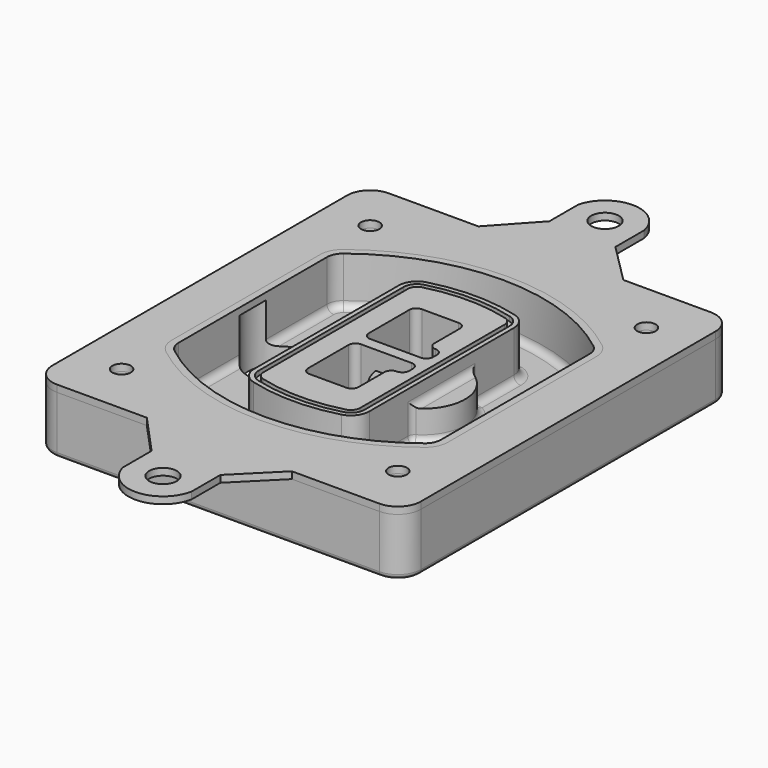
from build123d import *

# Parameters (mm, degrees)
F0_R      = 4
F1_DEPTH  = 25
F2_DEPTH  = 3
F3_DEPTH  = 18
F5_DEPTH  = 21
F6_DEPTH  = 2
F8_DEPTH  = 20
F9_DEPTH  = 16
F10_DEPTH = 25
F7_R      = 6
F7_R_2    = 4
F11_DEPTH = 6
F13_DEPTH = 9
F14_R     = 3
F15_R     = 2
F16_R     = 4
F16_R_2   = 6
F17_DEPTH = 3


with BuildPart() as f1:
    # F0 (on Top) → F1 (new body)
    with BuildSketch(Plane.XY):
        with BuildLine():
            ThreePointArc((-80, -80), (-77.0710678119, -87.0710678119), (-70, -90))
            Line((-70, -90), (70, -90))
            ThreePointArc((70, -90), (77.0710678119, -87.0710678119), (80, -80))
            Line((80, -80), (80, 80))
            ThreePointArc((80, 80), (77.0710678119, 87.0710678119), (70, 90))
            Line((70, 90), (-70, 90))
            ThreePointArc((-70, 90), (-77.0710678119, 87.0710678119), (-80, 80))
            Line((-80, 80), (-80, -80))
        make_face()
        with Locations((-60, -67.5)):
            Circle(F0_R, mode=Mode.SUBTRACT)
        with Locations((60, -67.5)):
            Circle(F0_R, mode=Mode.SUBTRACT)
        with Locations((-60, 67.5)):
            Circle(F0_R, mode=Mode.SUBTRACT)
        with BuildLine():
            ThreePointArc((-64, 40.2934422872), (-62.5820384798, 46.4328484224), (-58.6153846154, 51.3286200352))
            ThreePointArc((-58.6153846154, 51.3286200352), (0, 71.5), (58.6153846154, 51.3286200352))
            ThreePointArc((58.6153846154, 51.3286200352), (62.5820384798, 46.4328484224), (64, 40.2934422872))
            Line((64, 40.2934422872), (64, -40.2934422872))
            ThreePointArc((64, -40.2934422872), (62.5820384798, -46.4328484224), (58.6153846154, -51.3286200352))
            ThreePointArc((58.6153846154, -51.3286200352), (0, -71.5), (-58.6153846154, -51.3286200352))
            ThreePointArc((-58.6153846154, -51.3286200352), (-62.5820384798, -46.4328484224), (-64, -40.2934422872))
            Line((-64, -40.2934422872), (-64, 40.2934422872))
        make_face(mode=Mode.SUBTRACT)
        with Locations((60, 67.5)):
            Circle(F0_R, mode=Mode.SUBTRACT)
        with BuildLine():
            ThreePointArc((58.6153846154, 51.3286200352), (0, 71.5), (-58.6153846154, 51.3286200352))
            ThreePointArc((-58.6153846154, 51.3286200352), (-62.5820384798, 46.4328484224), (-64, 40.2934422872))
            Line((-64, 40.2934422872), (-64, -40.2934422872))
            ThreePointArc((-64, -40.2934422872), (-62.5820384798, -46.4328484224), (-58.6153846154, -51.3286200352))
            ThreePointArc((-58.6153846154, -51.3286200352), (0, -71.5), (58.6153846154, -51.3286200352))
            ThreePointArc((58.6153846154, -51.3286200352), (62.5820384798, -46.4328484224), (64, -40.2934422872))
            Line((64, -40.2934422872), (64, 40.2934422872))
            ThreePointArc((64, 40.2934422872), (62.5820384798, 46.4328484224), (58.6153846154, 51.3286200352))
        make_face()
        with BuildLine():
            Line((-60, -40.2934422872), (-60, 40.2934422872))
            ThreePointArc((-60, 40.2934422872), (-58.9871703427, 44.6787323838), (-56.1538461538, 48.1757121072))
            ThreePointArc((-56.1538461538, 48.1757121072), (0, 67.5), (56.1538461538, 48.1757121072))
            ThreePointArc((56.1538461538, 48.1757121072), (58.9871703427, 44.6787323838), (60, 40.2934422872))
            Line((60, 40.2934422872), (60, -40.2934422872))
            ThreePointArc((60, -40.2934422872), (58.9871703427, -44.6787323838), (56.1538461538, -48.1757121072))
            ThreePointArc((56.1538461538, -48.1757121072), (0, -67.5), (-56.1538461538, -48.1757121072))
            ThreePointArc((-56.1538461538, -48.1757121072), (-58.9871703427, -44.6787323838), (-60, -40.2934422872))
        make_face(mode=Mode.SUBTRACT)
        with BuildLine():
            ThreePointArc((-56.1538461538, 48.1757121072), (-58.9871703427, 44.6787323838), (-60, 40.2934422872))
            Line((-60, 40.2934422872), (-60, -40.2934422872))
            ThreePointArc((-60, -40.2934422872), (-58.9871703427, -44.6787323838), (-56.1538461538, -48.1757121072))
            ThreePointArc((-56.1538461538, -48.1757121072), (0, -67.5), (56.1538461538, -48.1757121072))
            ThreePointArc((56.1538461538, -48.1757121072), (58.9871703427, -44.6787323838), (60, -40.2934422872))
            Line((60, -40.2934422872), (60, 40.2934422872))
            ThreePointArc((60, 40.2934422872), (58.9871703427, 44.6787323838), (56.1538461538, 48.1757121072))
            ThreePointArc((56.1538461538, 48.1757121072), (0, 67.5), (-56.1538461538, 48.1757121072))
        make_face()
        with BuildLine():
            ThreePointArc((54.3076923077, 45.8110311612), (56.2910192399, 43.3631453548), (57, 40.2934422872))
            Line((57, 40.2934422872), (57, -40.2934422872))
            ThreePointArc((57, -40.2934422872), (56.2910192399, -43.3631453548), (54.3076923077, -45.8110311612))
            ThreePointArc((54.3076923077, -45.8110311612), (0, -64.5), (-54.3076923077, -45.8110311612))
            ThreePointArc((-54.3076923077, -45.8110311612), (-56.2910192399, -43.3631453548), (-57, -40.2934422872))
            Line((-57, -40.2934422872), (-57, 40.2934422872))
            ThreePointArc((-57, 40.2934422872), (-56.2910192399, 43.3631453548), (-54.3076923077, 45.8110311612))
            ThreePointArc((-54.3076923077, 45.8110311612), (0, 64.5), (54.3076923077, 45.8110311612))
        make_face(mode=Mode.SUBTRACT)
        with BuildLine():
            Line((57, -40.2934422872), (57, 40.2934422872))
            ThreePointArc((57, 40.2934422872), (56.2910192399, 43.3631453548), (54.3076923077, 45.8110311612))
            ThreePointArc((54.3076923077, 45.8110311612), (0, 64.5), (-54.3076923077, 45.8110311612))
            ThreePointArc((-54.3076923077, 45.8110311612), (-56.2910192399, 43.3631453548), (-57, 40.2934422872))
            Line((-57, 40.2934422872), (-57, -40.2934422872))
            ThreePointArc((-57, -40.2934422872), (-56.2910192399, -43.3631453548), (-54.3076923077, -45.8110311612))
            ThreePointArc((-54.3076923077, -45.8110311612), (0, -64.5), (54.3076923077, -45.8110311612))
            ThreePointArc((54.3076923077, -45.8110311612), (56.2910192399, -43.3631453548), (57, -40.2934422872))
        make_face()
    extrude(amount=-F1_DEPTH)

    # F0 (on Top) → F2 (join)
    with BuildSketch(Plane.XY):
        with BuildLine():
            ThreePointArc((-56.1538461538, 48.1757121072), (-58.9871703427, 44.6787323838), (-60, 40.2934422872))
            Line((-60, 40.2934422872), (-60, -40.2934422872))
            ThreePointArc((-60, -40.2934422872), (-58.9871703427, -44.6787323838), (-56.1538461538, -48.1757121072))
            ThreePointArc((-56.1538461538, -48.1757121072), (0, -67.5), (56.1538461538, -48.1757121072))
            ThreePointArc((56.1538461538, -48.1757121072), (58.9871703427, -44.6787323838), (60, -40.2934422872))
            Line((60, -40.2934422872), (60, 40.2934422872))
            ThreePointArc((60, 40.2934422872), (58.9871703427, 44.6787323838), (56.1538461538, 48.1757121072))
            ThreePointArc((56.1538461538, 48.1757121072), (0, 67.5), (-56.1538461538, 48.1757121072))
        make_face()
        with BuildLine():
            ThreePointArc((54.3076923077, 45.8110311612), (56.2910192399, 43.3631453548), (57, 40.2934422872))
            Line((57, 40.2934422872), (57, -40.2934422872))
            ThreePointArc((57, -40.2934422872), (56.2910192399, -43.3631453548), (54.3076923077, -45.8110311612))
            ThreePointArc((54.3076923077, -45.8110311612), (0, -64.5), (-54.3076923077, -45.8110311612))
            ThreePointArc((-54.3076923077, -45.8110311612), (-56.2910192399, -43.3631453548), (-57, -40.2934422872))
            Line((-57, -40.2934422872), (-57, 40.2934422872))
            ThreePointArc((-57, 40.2934422872), (-56.2910192399, 43.3631453548), (-54.3076923077, 45.8110311612))
            ThreePointArc((-54.3076923077, 45.8110311612), (0, 64.5), (54.3076923077, 45.8110311612))
        make_face(mode=Mode.SUBTRACT)
    extrude(amount=F2_DEPTH)

    # F0 (on Top) → F3 (cut)
    with BuildSketch(Plane.XY):
        with BuildLine():
            Line((57, -40.2934422872), (57, 40.2934422872))
            ThreePointArc((57, 40.2934422872), (56.2910192399, 43.3631453548), (54.3076923077, 45.8110311612))
            ThreePointArc((54.3076923077, 45.8110311612), (0, 64.5), (-54.3076923077, 45.8110311612))
            ThreePointArc((-54.3076923077, 45.8110311612), (-56.2910192399, 43.3631453548), (-57, 40.2934422872))
            Line((-57, 40.2934422872), (-57, -40.2934422872))
            ThreePointArc((-57, -40.2934422872), (-56.2910192399, -43.3631453548), (-54.3076923077, -45.8110311612))
            ThreePointArc((-54.3076923077, -45.8110311612), (0, -64.5), (54.3076923077, -45.8110311612))
            ThreePointArc((54.3076923077, -45.8110311612), (56.2910192399, -43.3631453548), (57, -40.2934422872))
        make_face()
    extrude(amount=-F3_DEPTH, mode=Mode.SUBTRACT)

    # F4 (on face) → F5 (join, through all)
    with BuildSketch(Plane.XY.offset(3)):
        with BuildLine():
            ThreePointArc((-25, -39.2465276821), (-23.3511545998, -44.1109737193), (-19.0842911877, -46.9702398883))
            ThreePointArc((-19.0842911877, -46.9702398883), (0, -49.5), (19.0842911877, -46.9702398883))
            ThreePointArc((19.0842911877, -46.9702398883), (23.3511545998, -44.1109737193), (25, -39.2465276821))
            Line((25, -39.2465276821), (25, 39.2465276821))
            ThreePointArc((25, 39.2465276821), (23.3511545998, 44.1109737193), (19.0842911877, 46.9702398883))
            ThreePointArc((19.0842911877, 46.9702398883), (0, 49.5), (-19.0842911877, 46.9702398883))
            ThreePointArc((-19.0842911877, 46.9702398883), (-23.3511545998, 44.1109737193), (-25, 39.2465276821))
            Line((-25, 39.2465276821), (-25, -39.2465276821))
        make_face()
        with BuildLine():
            ThreePointArc((18.5632183908, 45.0393118368), (21.7633659499, 42.89486221), (23, 39.2465276821))
            Line((23, 39.2465276821), (23, -39.2465276821))
            ThreePointArc((23, -39.2465276821), (21.7633659499, -42.89486221), (18.5632183908, -45.0393118368))
            ThreePointArc((18.5632183908, -45.0393118368), (0, -47.5), (-18.5632183908, -45.0393118368))
            ThreePointArc((-18.5632183908, -45.0393118368), (-21.7633659499, -42.89486221), (-23, -39.2465276821))
            Line((-23, -39.2465276821), (-23, 39.2465276821))
            ThreePointArc((-23, 39.2465276821), (-21.7633659499, 42.89486221), (-18.5632183908, 45.0393118368))
            ThreePointArc((-18.5632183908, 45.0393118368), (0, 47.5), (18.5632183908, 45.0393118368))
        make_face(mode=Mode.SUBTRACT)
        with BuildLine():
            Line((23, -39.2465276821), (23, 39.2465276821))
            ThreePointArc((23, 39.2465276821), (21.7633659499, 42.89486221), (18.5632183908, 45.0393118368))
            ThreePointArc((18.5632183908, 45.0393118368), (0, 47.5), (-18.5632183908, 45.0393118368))
            ThreePointArc((-18.5632183908, 45.0393118368), (-21.7633659499, 42.89486221), (-23, 39.2465276821))
            Line((-23, 39.2465276821), (-23, -39.2465276821))
            ThreePointArc((-23, -39.2465276821), (-21.7633659499, -42.89486221), (-18.5632183908, -45.0393118368))
            ThreePointArc((-18.5632183908, -45.0393118368), (0, -47.5), (18.5632183908, -45.0393118368))
            ThreePointArc((18.5632183908, -45.0393118368), (21.7633659499, -42.89486221), (23, -39.2465276821))
        make_face()
        with BuildLine():
            ThreePointArc((18.0421455939, 43.1083837852), (20.1755772999, 41.6787507007), (21, 39.2465276821))
            Line((21, 39.2465276821), (21, -39.2465276821))
            ThreePointArc((21, -39.2465276821), (20.1755772999, -41.6787507007), (18.0421455939, -43.1083837852))
            ThreePointArc((18.0421455939, -43.1083837852), (0, -45.5), (-18.0421455939, -43.1083837852))
            ThreePointArc((-18.0421455939, -43.1083837852), (-20.1755772999, -41.6787507007), (-21, -39.2465276821))
            Line((-21, -39.2465276821), (-21, 39.2465276821))
            ThreePointArc((-21, 39.2465276821), (-20.1755772999, 41.6787507007), (-18.0421455939, 43.1083837852))
            ThreePointArc((-18.0421455939, 43.1083837852), (0, 45.5), (18.0421455939, 43.1083837852))
        make_face(mode=Mode.SUBTRACT)
        with BuildLine():
            Line((21, -39.2465276821), (21, 39.2465276821))
            ThreePointArc((21, 39.2465276821), (20.1755772999, 41.6787507007), (18.0421455939, 43.1083837852))
            ThreePointArc((18.0421455939, 43.1083837852), (0, 45.5), (-18.0421455939, 43.1083837852))
            ThreePointArc((-18.0421455939, 43.1083837852), (-20.1755772999, 41.6787507007), (-21, 39.2465276821))
            Line((-21, 39.2465276821), (-21, -39.2465276821))
            ThreePointArc((-21, -39.2465276821), (-20.1755772999, -41.6787507007), (-18.0421455939, -43.1083837852))
            ThreePointArc((-18.0421455939, -43.1083837852), (0, -45.5), (18.0421455939, -43.1083837852))
            ThreePointArc((18.0421455939, -43.1083837852), (20.1755772999, -41.6787507007), (21, -39.2465276821))
        make_face()
        with BuildLine():
            Line((-8, -2.5), (14, -2.5))
            ThreePointArc((14, -2.5), (16.1213203436, -3.3786796564), (17, -5.5))
            Line((17, -5.5), (17, -7.5))
            ThreePointArc((17, -7.5), (16.1213203436, -9.6213203436), (14, -10.5))
            ThreePointArc((14, -10.5), (11.8786796564, -11.3786796564), (11, -13.5))
            Line((11, -13.5), (11, -27.5))
            ThreePointArc((11, -27.5), (10.1213203436, -29.6213203436), (8, -30.5))
            Line((8, -30.5), (-8, -30.5))
            ThreePointArc((-8, -30.5), (-10.1213203436, -29.6213203436), (-11, -27.5))
            Line((-11, -27.5), (-11, -5.5))
            ThreePointArc((-11, -5.5), (-10.1213203436, -3.3786796564), (-8, -2.5))
        make_face(mode=Mode.SUBTRACT)
        with BuildLine():
            ThreePointArc((-8, 2.5), (-10.1213203436, 3.3786796564), (-11, 5.5))
            Line((-11, 5.5), (-11, 27.5))
            ThreePointArc((-11, 27.5), (-10.1213203436, 29.6213203436), (-8, 30.5))
            Line((-8, 30.5), (8, 30.5))
            ThreePointArc((8, 30.5), (10.1213203436, 29.6213203436), (11, 27.5))
            Line((11, 27.5), (11, 13.5))
            ThreePointArc((11, 13.5), (11.8786796564, 11.3786796564), (14, 10.5))
            ThreePointArc((14, 10.5), (16.1213203436, 9.6213203436), (17, 7.5))
            Line((17, 7.5), (17, 5.5))
            ThreePointArc((17, 5.5), (16.1213203436, 3.3786796564), (14, 2.5))
            Line((14, 2.5), (-8, 2.5))
        make_face(mode=Mode.SUBTRACT)
    extrude(amount=-F5_DEPTH)

    # F4 (on face) → F6 (cut)
    with BuildSketch(Plane.XY.offset(3)):
        with BuildLine():
            Line((23, -39.2465276821), (23, 39.2465276821))
            ThreePointArc((23, 39.2465276821), (21.7633659499, 42.89486221), (18.5632183908, 45.0393118368))
            ThreePointArc((18.5632183908, 45.0393118368), (0, 47.5), (-18.5632183908, 45.0393118368))
            ThreePointArc((-18.5632183908, 45.0393118368), (-21.7633659499, 42.89486221), (-23, 39.2465276821))
            Line((-23, 39.2465276821), (-23, -39.2465276821))
            ThreePointArc((-23, -39.2465276821), (-21.7633659499, -42.89486221), (-18.5632183908, -45.0393118368))
            ThreePointArc((-18.5632183908, -45.0393118368), (0, -47.5), (18.5632183908, -45.0393118368))
            ThreePointArc((18.5632183908, -45.0393118368), (21.7633659499, -42.89486221), (23, -39.2465276821))
        make_face()
        with BuildLine():
            ThreePointArc((18.0421455939, 43.1083837852), (20.1755772999, 41.6787507007), (21, 39.2465276821))
            Line((21, 39.2465276821), (21, -39.2465276821))
            ThreePointArc((21, -39.2465276821), (20.1755772999, -41.6787507007), (18.0421455939, -43.1083837852))
            ThreePointArc((18.0421455939, -43.1083837852), (0, -45.5), (-18.0421455939, -43.1083837852))
            ThreePointArc((-18.0421455939, -43.1083837852), (-20.1755772999, -41.6787507007), (-21, -39.2465276821))
            Line((-21, -39.2465276821), (-21, 39.2465276821))
            ThreePointArc((-21, 39.2465276821), (-20.1755772999, 41.6787507007), (-18.0421455939, 43.1083837852))
            ThreePointArc((-18.0421455939, 43.1083837852), (0, 45.5), (18.0421455939, 43.1083837852))
        make_face(mode=Mode.SUBTRACT)
    extrude(amount=-F6_DEPTH, mode=Mode.SUBTRACT)

    # F7 (on face) → F8 (join)
    with BuildSketch(Plane(origin=(0, 0, -25), x_dir=(1, 0, 0), z_dir=(0, 0, -1))):
        with BuildLine():
            ThreePointArc((3.28842436, 0), (16.7567035675, 13.4682792075), (30.224982775, 0))
            Line((30.224982775, 0), (35.224982775, 0))
            ThreePointArc((35.224982775, 0), (16.7567035675, 18.4682792075), (-1.71157564, 0))
            Line((-1.71157564, 0), (3.28842436, 0))
        make_face()
        with BuildLine():
            Line((3.28842436, 0), (30.224982775, 0))
            ThreePointArc((30.224982775, 0), (16.7567035675, 13.4682792075), (3.28842436, 0))
        make_face()
        with BuildLine():
            ThreePointArc((3.28842436, 0), (16.7567035675, -13.4682792075), (30.224982775, 0))
            Line((30.224982775, 0), (3.28842436, 0))
        make_face()
        with BuildLine():
            Line((35.224982775, 0), (30.224982775, 0))
            ThreePointArc((30.224982775, 0), (16.7567035675, -13.4682792075), (3.28842436, 0))
            Line((3.28842436, 0), (-1.71157564, 0))
            ThreePointArc((-1.71157564, 0), (16.7567035675, -18.4682792075), (35.224982775, 0))
        make_face()
    extrude(amount=-F8_DEPTH)

    # F7 (on face) → F9 (cut)
    with BuildSketch(Plane(origin=(0, 0, -25), x_dir=(1, 0, 0), z_dir=(0, 0, -1))):
        with BuildLine():
            Line((3.28842436, 0), (30.224982775, 0))
            ThreePointArc((30.224982775, 0), (16.7567035675, 13.4682792075), (3.28842436, 0))
        make_face()
        with BuildLine():
            ThreePointArc((3.28842436, 0), (16.7567035675, -13.4682792075), (30.224982775, 0))
            Line((30.224982775, 0), (3.28842436, 0))
        make_face()
    extrude(amount=-F9_DEPTH, mode=Mode.SUBTRACT)

    # F7 (on face) → F10 (cut)
    with BuildSketch(Plane(origin=(0, 0, -25), x_dir=(1, 0, 0), z_dir=(0, 0, -1))):
        with BuildLine():
            Line((-59.0318229325, 0), (-32.0952645175, 0))
            ThreePointArc((-32.0952645175, 0), (-45.563543725, 13.4682792075), (-59.0318229325, 0))
        make_face()
        with BuildLine():
            ThreePointArc((-59.0318229325, 0), (-45.563543725, -13.4682792075), (-32.0952645175, 0))
            Line((-32.0952645175, 0), (-59.0318229325, 0))
        make_face()
    extrude(amount=-F10_DEPTH, mode=Mode.SUBTRACT)

    # F7 (on face) → F11 (cut)
    with BuildSketch(Plane(origin=(0, 0, -25), x_dir=(1, 0, 0), z_dir=(0, 0, -1))):
        with Locations((60, -67.5)):
            Circle(F7_R)
        with Locations((60, -67.5)):
            Circle(F7_R_2, mode=Mode.SUBTRACT)
        with Locations((60, -67.5)):
            Circle(F7_R)
        with Locations((60, -67.5)):
            Circle(F7_R_2, mode=Mode.SUBTRACT)
        with Locations((-60, -67.5)):
            Circle(F7_R)
        with Locations((-60, -67.5)):
            Circle(F7_R_2, mode=Mode.SUBTRACT)
        with Locations((-60, -67.5)):
            Circle(F7_R)
        with Locations((-60, -67.5)):
            Circle(F7_R_2, mode=Mode.SUBTRACT)
        with Locations((-60, 67.5)):
            Circle(F7_R)
        with Locations((-60, 67.5)):
            Circle(F7_R_2, mode=Mode.SUBTRACT)
        with Locations((-60, 67.5)):
            Circle(F7_R)
        with Locations((-60, 67.5)):
            Circle(F7_R_2, mode=Mode.SUBTRACT)
        with Locations((60, 67.5)):
            Circle(F7_R)
        with Locations((60, 67.5)):
            Circle(F7_R_2, mode=Mode.SUBTRACT)
        with Locations((60, 67.5)):
            Circle(F7_R)
        with Locations((60, 67.5)):
            Circle(F7_R_2, mode=Mode.SUBTRACT)
    extrude(amount=-F11_DEPTH, mode=Mode.SUBTRACT)

    # F12 (on face) → F13 (cut, through all)
    with BuildSketch(Plane(origin=(0, 0, -9), x_dir=(1, 0, 0), z_dir=(0, 0, -1))):
        with BuildLine():
            Line((11, 13.5), (11, 17.5481537753))
            ThreePointArc((11, 17.5481537753), (2.5696536419, 11.8239143813), (-1.5415842455, 2.5))
            Line((-1.5415842455, 2.5), (3.5224848595, 2.5))
            ThreePointArc((3.5224848595, 2.5), (6.1857188154, 8.3455872281), (11.2536447004, 12.2927168648))
            ThreePointArc((11.2536447004, 12.2927168648), (11.0640958889, 12.8831798879), (11, 13.5))
        make_face()
        with BuildLine():
            ThreePointArc((11.2536447004, -12.2927168648), (6.1857188154, -8.3455872281), (3.5224848595, -2.5))
            Line((3.5224848595, -2.5), (-1.5415842455, -2.5))
            ThreePointArc((-1.5415842455, -2.5), (2.5696536419, -11.8239143813), (11, -17.5481537753))
            Line((11, -17.5481537753), (11, -13.5))
            ThreePointArc((11, -13.5), (11.0640958889, -12.8831798879), (11.2536447004, -12.2927168648))
        make_face()
        with BuildLine():
            ThreePointArc((11.2536447004, 12.2927168648), (6.1857188154, 8.3455872281), (3.5224848595, 2.5))
            Line((3.5224848595, 2.5), (14, 2.5))
            ThreePointArc((14, 2.5), (16.1213203436, 3.3786796564), (17, 5.5))
            Line((17, 5.5), (17, 7.5))
            ThreePointArc((17, 7.5), (16.1213203436, 9.6213203436), (14, 10.5))
            ThreePointArc((14, 10.5), (12.3601599782, 10.9878446101), (11.2536447004, 12.2927168648))
        make_face()
        with BuildLine():
            Line((14, -2.5), (3.5224848595, -2.5))
            ThreePointArc((3.5224848595, -2.5), (6.1857188154, -8.3455872281), (11.2536447004, -12.2927168648))
            ThreePointArc((11.2536447004, -12.2927168648), (12.3601599782, -10.9878446101), (14, -10.5))
            ThreePointArc((14, -10.5), (16.1213203436, -9.6213203436), (17, -7.5))
            Line((17, -7.5), (17, -5.5))
            ThreePointArc((17, -5.5), (16.1213203436, -3.3786796564), (14, -2.5))
        make_face()
    extrude(amount=F13_DEPTH, mode=Mode.SUBTRACT)

    # F14
    f14_edges = [f1.edges().sort_by_distance(p)[0] for p in [
        (-57, -23.703476, -18),
        (-57, 23.703476, -18),
        (25, 0, -5),
        (25, 16.526506, -11.5),
        (25, -16.526506, -11.5),
        (25, -27.886517, -18),
        (35.224983, 0, -18),
    ]]
    fillet(f14_edges, radius=F14_R)

    # F15
    f15_edges = [f1.edges().sort_by_distance(p)[0] for p in [
        (0, -90, -25),
    ]]
    fillet(f15_edges, radius=F15_R)


with BuildPart() as f17:
    # F16 (on face) → F17 (new body, through all)
    with BuildSketch(Plane.XY):
        with BuildLine():
            Line((70, 90), (31.9649354912, 90))
            Line((31.9649354912, 90), (-31.0121390373, 90))
            Line((-31.0121390373, 90), (-70, 90))
            ThreePointArc((-70, 90), (-77.0710678119, 87.0710678119), (-80, 80))
            Line((-80, 80), (-80, -80))
            ThreePointArc((-80, -80), (-77.0710678119, -87.0710678119), (-70, -90))
            Line((-70, -90), (-31.0121390373, -90))
            Line((-31.0121390373, -90), (31.9649354912, -90))
            Line((31.9649354912, -90), (70, -90))
            ThreePointArc((70, -90), (77.0710678119, -87.0710678119), (80, -80))
            Line((80, -80), (80, 80))
            ThreePointArc((80, 80), (77.0710678119, 87.0710678119), (70, 90))
        make_face()
        with Locations((-60, -67.5)):
            Circle(F16_R, mode=Mode.SUBTRACT)
        with Locations((60, -67.5)):
            Circle(F16_R, mode=Mode.SUBTRACT)
        with Locations((-60, 67.5)):
            Circle(F16_R, mode=Mode.SUBTRACT)
        with BuildLine():
            ThreePointArc((-60, 40.2934422872), (-58.9871703427, 44.6787323838), (-56.1538461538, 48.1757121072))
            ThreePointArc((-56.1538461538, 48.1757121072), (0, 67.5), (56.1538461538, 48.1757121072))
            ThreePointArc((56.1538461538, 48.1757121072), (58.9871703427, 44.6787323838), (60, 40.2934422872))
            Line((60, 40.2934422872), (60, -40.2934422872))
            ThreePointArc((60, -40.2934422872), (58.9871703427, -44.6787323838), (56.1538461538, -48.1757121072))
            ThreePointArc((56.1538461538, -48.1757121072), (0, -67.5), (-56.1538461538, -48.1757121072))
            ThreePointArc((-56.1538461538, -48.1757121072), (-58.9871703427, -44.6787323838), (-60, -40.2934422872))
            Line((-60, -40.2934422872), (-60, 40.2934422872))
        make_face(mode=Mode.SUBTRACT)
        with Locations((60, 67.5)):
            Circle(F16_R, mode=Mode.SUBTRACT)
        with BuildLine():
            Line((31.9649354912, 90), (14.7151700016, 107.2497654896))
            Line((14.7151700016, 107.2497654896), (14.7151700016, 122.9092562321))
            ThreePointArc((14.7151700016, 122.9092562321), (0.3844524988, 134.9950723998), (-14.5467565974, 123.6594907425))
            Line((-14.5467565974, 123.6594907425), (-14.5467565974, 108))
            Line((-14.5467565974, 108), (-31.0121390373, 90))
            Line((-31.0121390373, 90), (31.9649354912, 90))
        make_face()
        with Locations((0, 120)):
            Circle(F16_R_2, mode=Mode.SUBTRACT)
        with BuildLine():
            Line((14.7151700016, -107.2497654896), (31.9649354912, -90))
            Line((31.9649354912, -90), (-31.0121390373, -90))
            Line((-31.0121390373, -90), (-14.5467565974, -108))
            Line((-14.5467565974, -108), (-14.5467565974, -123.6594907425))
            ThreePointArc((-14.5467565974, -123.6594907425), (0.3844524988, -134.9950723998), (14.7151700016, -122.9092562321))
            Line((14.7151700016, -122.9092562321), (14.7151700016, -107.2497654896))
        make_face()
        with Locations((0, -120)):
            Circle(F16_R_2, mode=Mode.SUBTRACT)
    extrude(amount=F17_DEPTH)


solid = Compound([f1.part, f17.part])
